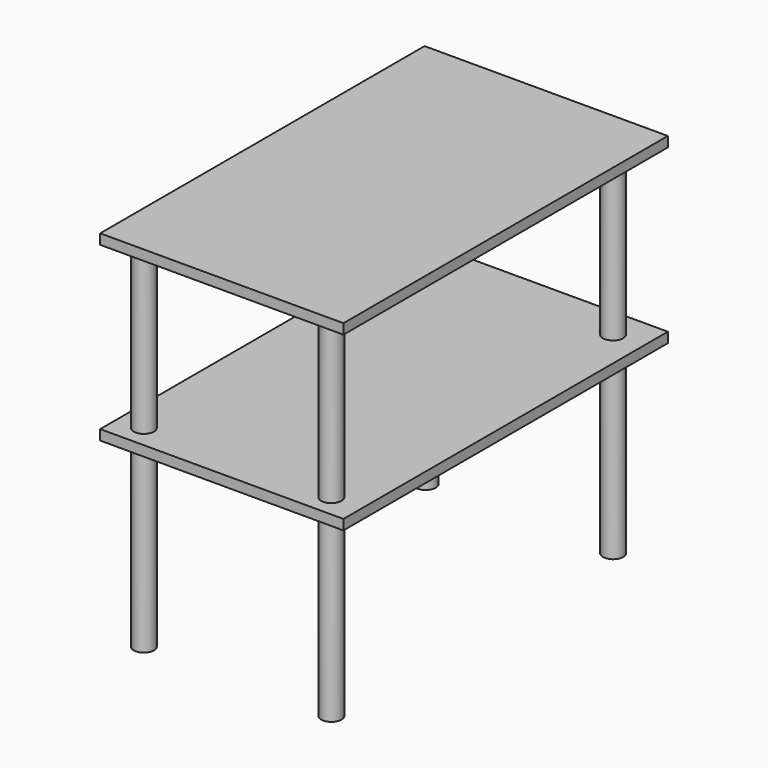
from build123d import *

# Parameters (mm, degrees)
F0_W     = 600
F0_H     = 25
F1_DEPTH = 1000
F2_R     = 25
F3_DEPTH = 875
F4_W     = 600
F4_H     = 25
F5_DEPTH = 1000


with BuildPart() as f1:
    # F0 (on Front) → F1 (new body)
    with BuildSketch(Plane.XZ):
        with Locations((300, 887.5)):
            Rectangle(F0_W, F0_H)
    extrude(amount=F1_DEPTH)

    # F2 (on face) → F3 (join)
    with BuildSketch(Plane(origin=(0, 0, 875), x_dir=(1, 0, 0), z_dir=(0, 0, -1))):
        with Locations((525, 75)):
            Circle(F2_R)
        with Locations((62.72, 75)):
            Circle(F2_R)
        with Locations((525, 943.68)):
            Circle(F2_R)
        with Locations((62.72, 943.68)):
            Circle(F2_R)
    extrude(amount=F3_DEPTH)

    # F4 (on face) → F5 (join)
    with BuildSketch(Plane(origin=(0, 0, 0), x_dir=(-1, 0, 0), z_dir=(0, 1, 0))):
        with Locations((-300, 462.5)):
            Rectangle(F4_W, F4_H)
    extrude(amount=-F5_DEPTH)


solid = f1.part
